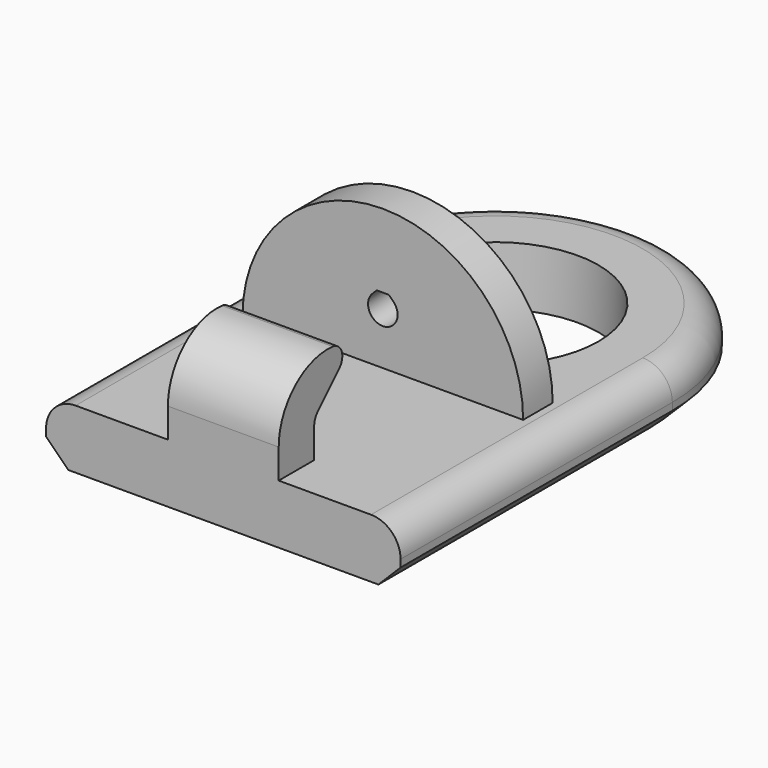
from build123d import *

# Parameters (mm, degrees)
PAD004_DEPTH          = 7.5
PAD003_DEPTH          = 10
PAD002_DEPTH          = 20
CLONE_ROLL_ANGLE      = 90
CLONE_PLACEMENT_ANGLE = 180
SKETCH_R              = 14
PAD_DEPTH             = 8
FILLET_R              = 4
CHAMFER_SIZE          = 3
PAD001_DEPTH          = 5


with BuildPart() as hookpad001:
    # Sketch004 → Pad004 (new body, symmetric)
    with BuildSketch(Plane.YZ):
        with BuildLine():
            Line((-40, 0), (-40, 12))
            ThreePointArc((-39.326335, 13.626354), (-39.82492, 12.880177), (-40, 12))
            Line((-39.326335, 13.626354), (-35.759843, 17.192846))
            ThreePointArc((-35.759843, 17.192846), (-35.336431, 19.068073), (-36.847811, 20.256133))
            ThreePointArc((-36.847811, 20.256133), (-43.259533, 18.162919), (-46, 12))
            Line((-46, 0), (-46, 12))
            Line((-40, 0), (-46, 0))
        make_face()
    extrude(amount=PAD004_DEPTH, both=True)


with BuildPart() as printbolthead001:
    # Sketch003 → Pad003 (new body)
    with BuildSketch(Plane.XY):
        with BuildLine():
            ThreePointArc((-3.535526, 3.535542), (-1.8e-05, -5), (3.535551, 3.535517))
            Line((2.071068, 5), (3.535551, 3.535517))
            Line((-2.071068, 5), (2.071068, 5))
            Line((-3.535526, 3.535542), (-2.071068, 5))
        make_face()
    extrude(amount=PAD003_DEPTH)


with BuildPart() as clone_of_printboltslot:
    # Sketch002 → Pad002 (new body)
    with BuildSketch(Plane.XY):
        with BuildLine():
            ThreePointArc((-1.414208, 1.414219), (1e-06, -2), (1.414206, 1.414221))
            Line((0.828427, 2), (1.414206, 1.414221))
            Line((-0.828427, 2), (0.828427, 2))
            Line((-1.414208, 1.414219), (-0.828427, 2))
        make_face()
    extrude(amount=-PAD002_DEPTH)

    # Fusion001: union PrintBoltHead001
    add(printbolthead001.part)


with BuildPart() as clone_of_printboltslot_1:
    # Clone roll: moved
    add(clone_of_printboltslot.part.rotate(Axis((0, 0, 0), (1, 0, 0)), CLONE_ROLL_ANGLE))


with BuildPart() as clone_of_printboltslot_2:
    # Clone placement: moved
    add(clone_of_printboltslot_1.part.moved(Location((0, -15, 15))).rotate(Axis((0, -15, 15), (0, 0, 1)), CLONE_PLACEMENT_ANGLE))


with BuildPart() as mainchamfer:
    # Sketch → Pad (new body)
    with BuildSketch(Plane.XY):
        with BuildLine():
            Line((-24, -1e-06), (-24, -46))
            Line((-24, -46), (24, -46))
            Line((24, -46), (24, -1e-06))
            ThreePointArc((24, -1e-06), (0, 24), (-24, -1e-06))
        make_face()
        Circle(SKETCH_R, mode=Mode.SUBTRACT)
    extrude(amount=PAD_DEPTH)

    # Fillet
    fillet_edges = [mainchamfer.edges().sort_by_distance(p)[0] for p in [
        (24, -23, 8),
    ]]
    fillet(fillet_edges, radius=FILLET_R)

    # Chamfer
    chamfer_edges = [mainchamfer.edges().sort_by_distance(p)[0] for p in [
        (24, -23, 0),
    ]]
    chamfer(chamfer_edges, length=CHAMFER_SIZE)


with BuildPart() as obj1:
    # Sketch001 → Pad001 (new body)
    with BuildSketch(Plane(origin=(0, -14, 8), x_dir=(1, 0, 0), z_dir=(0, -1, 0))):
        with BuildLine():
            ThreePointArc((19, 0), (0, 19), (-19, 0))
            Line((-19, 0), (19, 0))
        make_face()
    extrude(amount=PAD001_DEPTH)

    # Fusion: union MainChamfer
    add(mainchamfer.part)

    # Cut: cut Clone of PrintBoltSlot
    add(clone_of_printboltslot_2.part, mode=Mode.SUBTRACT)

    # Fusion002: union HookPad001
    add(hookpad001.part)


solid = obj1.part
